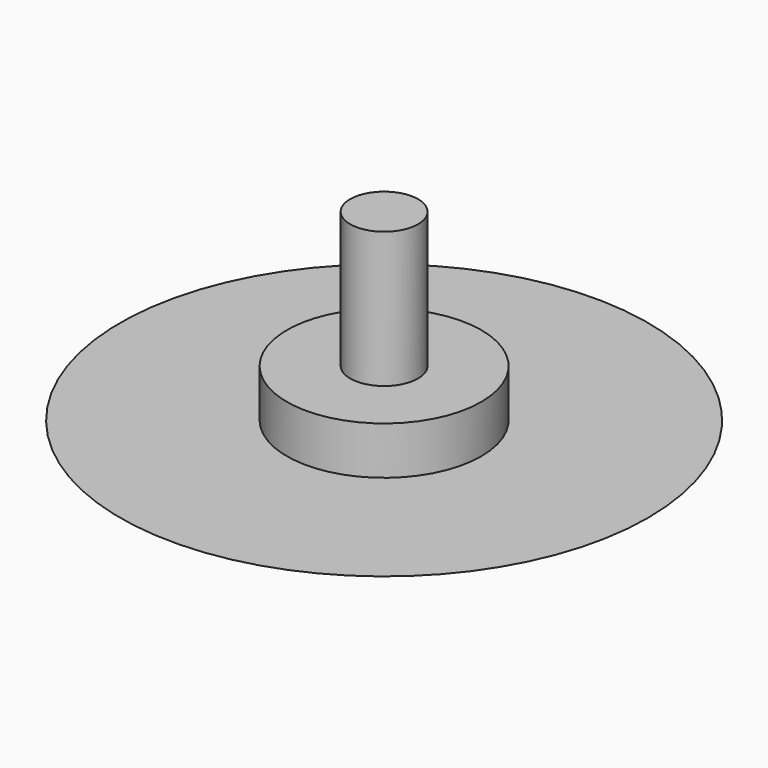
from build123d import *

# Parameters (mm, degrees)
F0_W = 7.3141366664
F0_H = 29.2565423622


with BuildPart() as f1:
    # F0 (on Front) → F1 (revolve)
    with BuildSketch(Plane.XZ):
        Polygon((0, 23.9371718061), (0, 0), (56.8507868048, 23.9371718061), (20.945026944, 23.9371718061), align=None)
        Polygon((0, 34.2434576378), (0, 23.9371718061), (20.945026944, 23.9371718061), (20.945026944, 34.2434576378), (7.3141366664, 34.2434576378), align=None)
        with Locations((3.6570683332, 48.8717288189)):
            Rectangle(F0_W, F0_H)
    revolve(axis=Axis((0, 0, 31.75), (0, 0, 1)))


solid = f1.part
